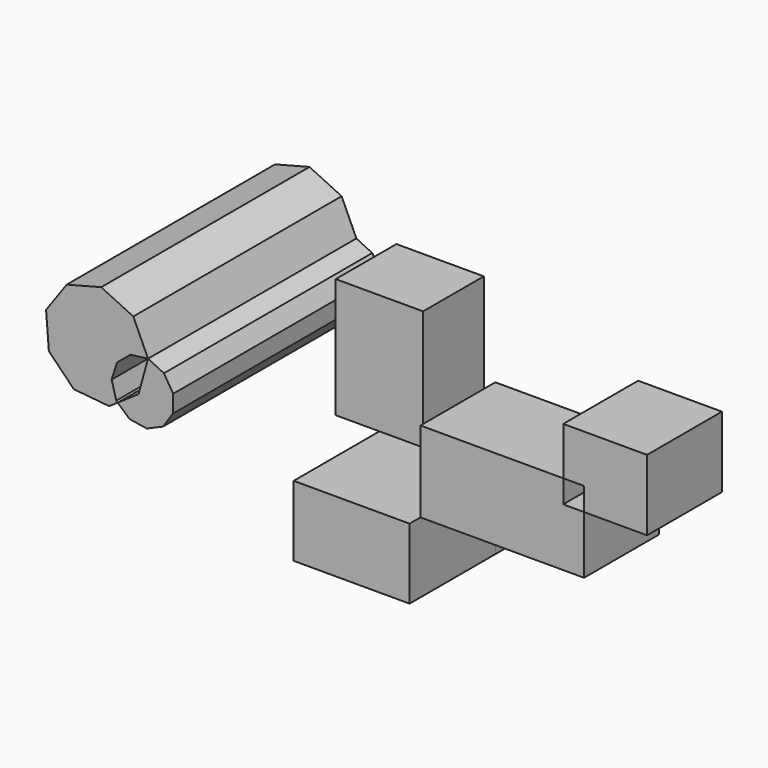
from build123d import *

# Parameters (mm, degrees)
F1_DEPTH  = 120.988414
F2_W      = 40.60153
F2_H      = 55.675119
F3_DEPTH  = 35.250731
F5_DEPTH  = 49.789887
F7_DEPTH  = 43.476962
F5_FACE_W = 53.860638
F5_FACE_H = 32.730096
F8_DEPTH  = 38.220398


with BuildPart() as f1:
    # F0 (on Front) → F1 (new body)
    with BuildSketch(Plane.XZ):
        Polygon((-32.136902, -9.347696), (-15.684007, -10.936837), (-11.721509, -8.215211), (-12.39141, -7.610341), (-14.538778, 0.297076), (-12.070187, 8.110173), (-5.769397, 13.348347), (2.363136, 14.348516), (-4.487076, 29.391712), (-19.404222, 36.512237), (-35.408405, 32.378319), (-45.011089, 18.924264), (-43.719072, 2.445374), align=None)
        Polygon((-2.058878, -1.578472), (-11.721509, -8.215211), (-6.309856, -13.101528), (1.775032, -14.433073), (9.29636, -11.182218), (13.86616, -4.381089), (14.033551, 3.811005), (9.74539, 10.793132), (2.363136, 14.348516), align=None)
    extrude(amount=F1_DEPTH)


with BuildPart() as f3:
    # F2 (on Front) → F3 (new body)
    with BuildSketch(Plane.XZ):
        with Locations((41.259747, -9.736859)):
            Rectangle(F2_W, F2_H)
    extrude(amount=F3_DEPTH)


with BuildPart() as f5:
    # F4 (on face) → F5 (new body)
    with BuildSketch(Plane.XZ.offset(35.250731)):
        Polygon((61.560512, -37.574418), (41.259747, -37.574418), (41.259747, -70.304513), (95.120385, -70.304513), (95.120385, -37.574418), align=None)
    extrude(amount=F5_DEPTH)


with BuildPart() as f7:
    # F6 (on face) → F7 (new body)
    with BuildSketch(Plane(origin=(0, -35.250731, 0), x_dir=(-1, 0, 0), z_dir=(0, 1, 0))):
        Polygon((-95.120385, 0), (-161.469132, 0), (-161.469132, -10.673147), (-171.130016, -10.673147), (-171.130016, -37.574418), (-95.120385, -37.574418), align=None)
        Polygon((-171.130016, -10.673147), (-171.130016, 0), (-161.469132, 0), (-161.469132, 22.239052), (-200.407609, 22.239052), (-200.407609, -10.673147), align=None)
    extrude(amount=-F7_DEPTH)


with BuildPart() as f8:
    # F5_face (on face) → F8 (new body)
    with BuildSketch(Plane(origin=(68.190066, -35.250731, -53.939465), x_dir=(1, 0, 0), z_dir=(0, 1, 0))):
        Rectangle(F5_FACE_W, F5_FACE_H)
    extrude(amount=F8_DEPTH)


solid = Compound([f1.part, f3.part, f5.part, f7.part, f8.part])
